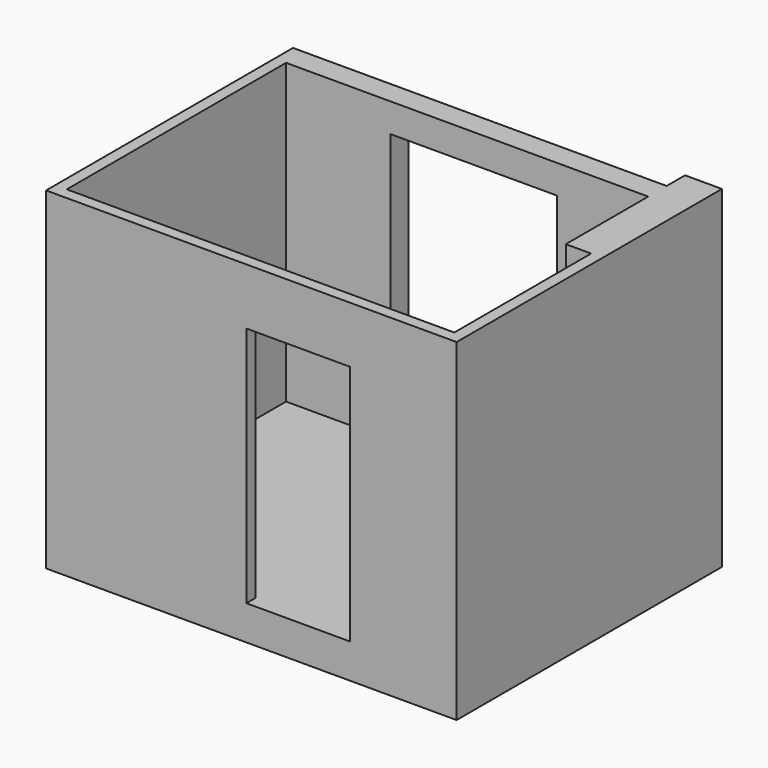
from build123d import *

# Parameters (mm, degrees)
F0_W      = 1450
F0_H      = 200
F0_W_2    = 790
F0_W_3    = 900
F0_H_2    = 100
F1_DEPTH  = 300
F2_DEPTH  = 2590
F3_DEPTH  = 820
F4_W      = 900
F4_H      = 100
F5_DEPTH  = 490
F6_W      = 1450
F6_H      = 200
F7_DEPTH  = 250
F8_R      = 32.5
F9_DEPTH  = 70
F10_R     = 32.5
F11_DEPTH = 70


with BuildPart() as f1:
    # F0 (on Top) → F1 (new body)
    with BuildSketch(Plane.XY):
        Polygon((-825, 0), (0, 0), (0, 1485), (-220, 1485), (-220, 2380), (-1010, 2380), (-2460, 2380), (-3365, 2380), (-3365, 0), (-1725, 0), align=None)
        Polygon((-1725, -100), (-1725, 0), (-3365, 0), (-3365, 2380), (-2460, 2380), (-2460, 2580), (-3465, 2580), (-3465, -100), align=None)
        with Locations((-1735, 2480)):
            Rectangle(F0_W, F0_H)
        with Locations((-615, 2480)):
            Rectangle(F0_W_2, F0_H)
        with Locations((-1275, -50)):
            Rectangle(F0_W_3, F0_H_2)
        Polygon((0, 1485), (0, 0), (-825, 0), (-825, -100), (100, -100), (100, 1485), align=None)
        Polygon((-220, 1485), (0, 1485), (100, 1485), (100, 2580), (100, 2780), (-220, 2780), (-220, 2580), (-220, 2380), align=None)
    extrude(amount=-F1_DEPTH)

    # F0 (on Top) → F2 (join)
    with BuildSketch(Plane.XY):
        Polygon((-220, 1485), (0, 1485), (100, 1485), (100, 2580), (100, 2780), (-220, 2780), (-220, 2580), (-220, 2380), align=None)
        Polygon((-1725, -100), (-1725, 0), (-3365, 0), (-3365, 2380), (-2460, 2380), (-2460, 2580), (-3465, 2580), (-3465, -100), align=None)
        Polygon((0, 1485), (0, 0), (-825, 0), (-825, -100), (100, -100), (100, 1485), align=None)
        with Locations((-615, 2480)):
            Rectangle(F0_W_2, F0_H)
    extrude(amount=F2_DEPTH)

    # F0 (on Top) → F3 (join)
    with BuildSketch(Plane.XY):
        with Locations((-1735, 2480)):
            Rectangle(F0_W, F0_H)
    extrude(amount=F3_DEPTH)

    # F4 (on face) → F5 (join)
    with BuildSketch(Plane.XY.offset(2590)):
        with Locations((-1275, -50)):
            Rectangle(F4_W, F4_H)
    extrude(amount=-F5_DEPTH)

    # F6 (on face) → F7 (join)
    with BuildSketch(Plane.XY.offset(2590)):
        with Locations((-1735, 2480)):
            Rectangle(F6_W, F6_H)
    extrude(amount=-F7_DEPTH)

    # F8 (on face) → F9 (cut)
    with BuildSketch(Plane.XZ.offset(-2380)):
        with Locations((-750, 1200)):
            Circle(F8_R)
        with Locations((-610, 415)):
            Circle(F8_R)
    extrude(amount=-F9_DEPTH, mode=Mode.SUBTRACT)

    # F10 (on face) → F11 (cut)
    with BuildSketch(Plane(origin=(0, 0, 0), x_dir=(-1, 0, 0), z_dir=(0, 1, 0))):
        with Locations((2002.185583, 415)):
            Circle(F10_R)
        with Locations((2077.185583, 410.054623)):
            Circle(F10_R)
        with Locations((2152.185583, 415)):
            Circle(F10_R)
        with Locations((2002.185583, 1200)):
            Circle(F10_R)
    extrude(amount=-F11_DEPTH, mode=Mode.SUBTRACT)


solid = f1.part
